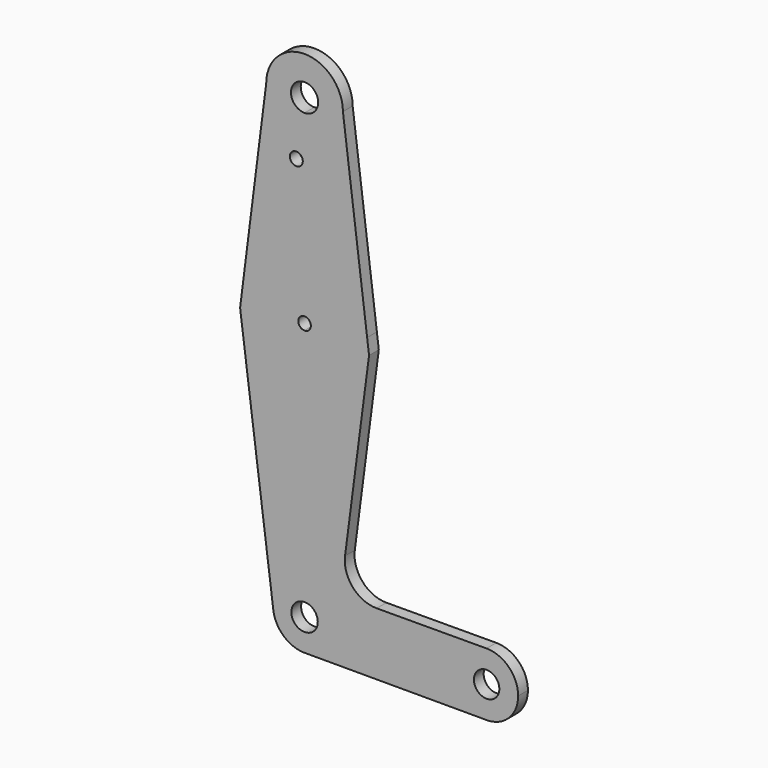
from build123d import *

# Parameters (mm, degrees)
F0_R     = 1.6169626647
F1_DEPTH = 3.048


with BuildPart() as f1:
    # F0 (on Front) → F1 (new body)
    with BuildSketch(Plane.XZ):
        with BuildLine():
            ThreePointArc((-63.3394401935, 51.5408627689), (-60.5300601386, 44.7584193386), (-53.7476167083, 41.9490392837))
            ThreePointArc((-53.7476167083, 41.9490392837), (-46.9651732779, 44.7584193386), (-44.1557932231, 51.5408627689))
            ThreePointArc((-44.1557932231, 51.5408627689), (-53.7476167083, 61.1326862541), (-63.3394401935, 51.5408627689))
        make_face()
        with BuildLine():
            ThreePointArc((-50.3500356436, 51.5408627689), (-51.3451640978, 49.1384101584), (-53.7476167083, 48.1432817042))
            ThreePointArc((-53.7476167083, 48.1432817042), (-56.1500693187, 53.9433153794), (-50.3500356436, 51.5408627689))
        make_face(mode=Mode.SUBTRACT)
        with BuildLine():
            ThreePointArc((-44.1557932231, 51.5408627689), (-46.9651732779, 44.7584193386), (-53.7476167083, 41.9490392837))
            Line((-53.7476167083, 41.9490392837), (-53.7476167083, 17.560091))
            ThreePointArc((-53.7476167083, 17.560091), (-43.320354495, 13.6211561996), (-38.1016313362, 3.7718956578))
            Line((-38.1016313362, 3.7718956578), (-44.1557932231, 51.5408627689))
        make_face()
        with BuildLine():
            Line((-53.7476167083, 17.560091), (-53.7476167083, 41.9490392837))
            ThreePointArc((-53.7476167083, 41.9490392837), (-60.5300601386, 44.7584193386), (-63.3394401935, 51.5408627689))
            Line((-63.3394401935, 51.5408627689), (-69.3936021245, 3.7718953097))
            ThreePointArc((-69.3936021245, 3.7718953097), (-64.1748790532, 13.6211560835), (-53.7476167083, 17.560091))
        make_face()
        with Locations((-55.8080822229, 37.366181612)):
            Circle(F0_R, mode=Mode.SUBTRACT)
        with BuildLine():
            ThreePointArc((-38.1016313362, 3.7718956578), (-43.320354495, 13.6211561996), (-53.7476167083, 17.560091))
            Line((-53.7476167083, 17.560091), (-53.7476167083, 3.3594787524))
            ThreePointArc((-53.7476167083, 3.3594787524), (-52.6370840671, 2.8994810709), (-52.1770863857, 1.7889484297))
            ThreePointArc((-52.1770863857, 1.7889484297), (-52.6370840671, 0.6784157886), (-53.7476167083, 0.2184181071))
            Line((-53.7476167083, 0.2184181071), (-53.7476167083, -13.9821941405))
            ThreePointArc((-53.7476167083, -13.9821941405), (-42.5957348498, -9.3629334288), (-37.976474138, 1.7889484297))
            ThreePointArc((-37.976474138, 1.7889484297), (-38.0077945376, 2.78239496), (-38.1016313362, 3.7718956578))
        make_face()
        with BuildLine():
            Line((-53.7476167083, 3.3594787524), (-53.7476167083, 17.560091))
            ThreePointArc((-53.7476167083, 17.560091), (-64.1748790532, 13.6211560835), (-69.3936021245, 3.7718953097))
            ThreePointArc((-69.3936021245, 3.7718953097), (-65.5798243621, -8.6383139152), (-53.7476167083, -13.9821941405))
            Line((-53.7476167083, -13.9821941405), (-53.7476167083, 0.2184181071))
            ThreePointArc((-53.7476167083, 0.2184181071), (-55.3181470309, 1.7889484297), (-53.7476167083, 3.3594787524))
        make_face()
        with BuildLine():
            Line((-37.6235873609, 0), (-38.1016313362, 3.7718956578))
            ThreePointArc((-38.1016313362, 3.7718956578), (-38.0077945376, 2.78239496), (-37.976474138, 1.7889484297))
            ThreePointArc((-37.976474138, 1.7889484297), (-42.5957348498, -9.3629334288), (-53.7476167083, -13.9821941405))
            Line((-53.7476167083, -13.9821941405), (-53.7476167083, -54.9663756517))
            ThreePointArc((-53.7476167083, -54.9663756517), (-48.1772102832, -57.2737135409), (-45.869872394, -62.844119966))
            Line((-45.869872394, -62.844119966), (-16.1001367542, -62.844119966))
            ThreePointArc((-16.1001367542, -62.844119966), (-13.8006404187, -57.278812686), (-8.2434529492, -54.9597620295))
            Line((-8.2434529492, -54.9597620295), (-35.7097443, -55.0563386246))
            ThreePointArc((-35.7097443, -55.0563386246), (-41.7018969318, -52.3629945232), (-43.6213969554, -46.0800401807))
            Line((-43.6213969554, -46.0800401807), (-37.6235873609, 0))
        make_face()
        with BuildLine():
            ThreePointArc((-53.7476167083, -13.9821941405), (-65.5798243621, -8.6383139152), (-69.3936021245, 3.7718953097))
            Line((-69.3936021245, 3.7718953097), (-69.8716460556, 0))
            Line((-69.8716460556, 0), (-61.5594655419, -63.8609155613))
            ThreePointArc((-61.5594655419, -63.8609155613), (-59.6666078048, -57.6456201939), (-53.7476167083, -54.9663756517))
            Line((-53.7476167083, -54.9663756517), (-53.7476167083, -13.9821941405))
        make_face()
        with BuildLine():
            Line((-53.7476167083, -59.5422655519), (-53.7476167083, -54.9663756517))
            ThreePointArc((-53.7476167083, -54.9663756517), (-59.6666078048, -57.6456201939), (-61.5594655419, -63.8609155613))
            ThreePointArc((-61.5594655419, -63.8609155613), (-58.991522279, -68.7229217017), (-53.868886638, -70.7209308109))
            Line((-53.868886638, -70.7209308109), (-53.6263467786, -70.7209308109))
            ThreePointArc((-53.6263467786, -70.7209308109), (-48.1344986363, -68.371484708), (-45.869872394, -62.844119966))
            Line((-45.869872394, -62.844119966), (-50.4457622942, -62.844119966))
            ThreePointArc((-50.4457622942, -62.844119966), (-56.082380355, -65.1788836127), (-53.7476167083, -59.5422655519))
        make_face()
        with BuildLine():
            Line((-16.1001367542, -62.844119966), (-45.869872394, -62.844119966))
            ThreePointArc((-45.869872394, -62.844119966), (-48.1344986363, -68.371484708), (-53.6263467786, -70.7209308109))
            Line((-53.6263467786, -70.7209308109), (-8.5617351981, -70.7209308109))
            ThreePointArc((-8.5617351981, -70.7209308109), (-13.9118653342, -68.2955337071), (-16.1001367542, -62.844119966))
        make_face()
        with BuildLine():
            Line((-53.6263467786, -70.7209308109), (-53.868886638, -70.7209308109))
            ThreePointArc((-53.868886638, -70.7209308109), (-53.7476167083, -70.7218642803), (-53.6263467786, -70.7209308109))
        make_face()
        with BuildLine():
            ThreePointArc((-0.3313234028, -62.844119966), (-2.6504227985, -57.2592096259), (-8.2434529492, -54.9597620295))
            ThreePointArc((-8.2434529492, -54.9597620295), (-13.8006404187, -57.278812686), (-16.1001367542, -62.844119966))
            ThreePointArc((-16.1001367542, -62.844119966), (-13.9118653342, -68.2955337071), (-8.5617351981, -70.7209308109))
            Line((-8.5617351981, -70.7209308109), (-7.8697249589, -70.7209308109))
            ThreePointArc((-7.8697249589, -70.7209308109), (-2.5195948228, -68.2955337071), (-0.3313234028, -62.844119966))
        make_face()
        with BuildLine():
            ThreePointArc((-5.0356472554, -62.844119966), (-8.2157300785, -66.0242027891), (-11.3958129016, -62.844119966))
            ThreePointArc((-11.3958129016, -62.844119966), (-8.2157300785, -59.6640371429), (-5.0356472554, -62.844119966))
        make_face(mode=Mode.SUBTRACT)
        with BuildLine():
            Line((-7.8697249589, -70.7209308109), (-8.5617351981, -70.7209308109))
            ThreePointArc((-8.5617351981, -70.7209308109), (-8.2157300785, -70.7285266418), (-7.8697249589, -70.7209308109))
        make_face()
        with BuildLine():
            ThreePointArc((-45.869872394, -62.844119966), (-48.1772102832, -57.2737135409), (-53.7476167083, -54.9663756517))
            Line((-53.7476167083, -54.9663756517), (-53.7476167083, -59.5422655519))
            ThreePointArc((-53.7476167083, -59.5422655519), (-51.4128530616, -60.5093563193), (-50.4457622942, -62.844119966))
            Line((-50.4457622942, -62.844119966), (-45.869872394, -62.844119966))
        make_face()
    extrude(amount=F1_DEPTH)


solid = f1.part
